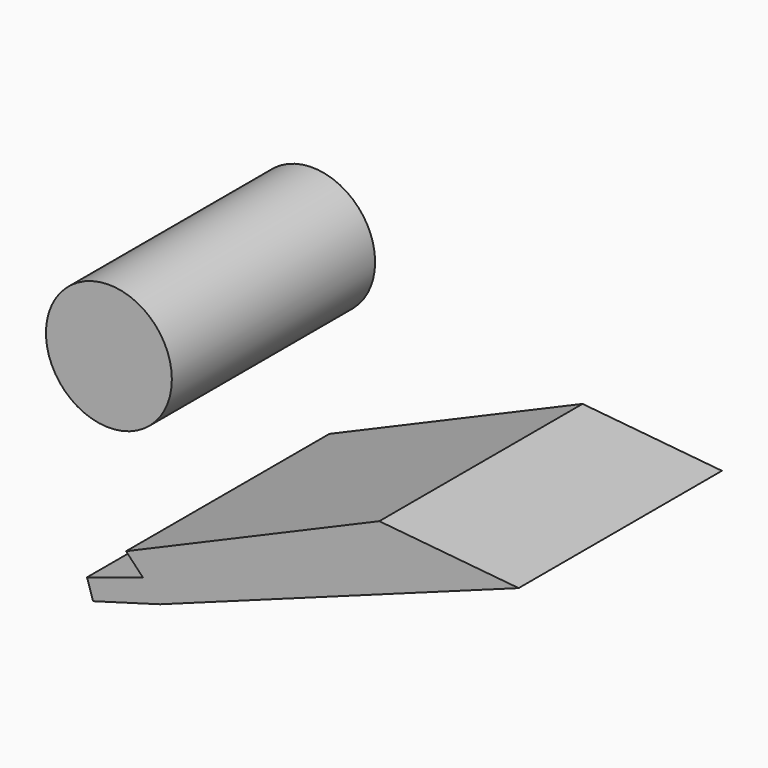
from build123d import *

# Parameters (mm, degrees)
F0_R     = 6.29267
F1_DEPTH = 25.4


with BuildPart() as f1:
    # F0 (on Front) → F1 (new body)
    with BuildSketch(Plane.XZ):
        with Locations((-50.511364, 30.508865)):
            Circle(F0_R)
        Polygon((-23.478651, 24.777239), (-48.793647, 13.903684), (-47.094654, 12.119742), (-45.395661, 10.335799), (-9.546909, 23.418047), align=None)
        Polygon((-45.395661, 10.335799), (-47.094654, 12.119742), (-52.701332, 10.335799), (-52.094783, 8.429503), align=None)
    extrude(amount=F1_DEPTH)


solid = f1.part
